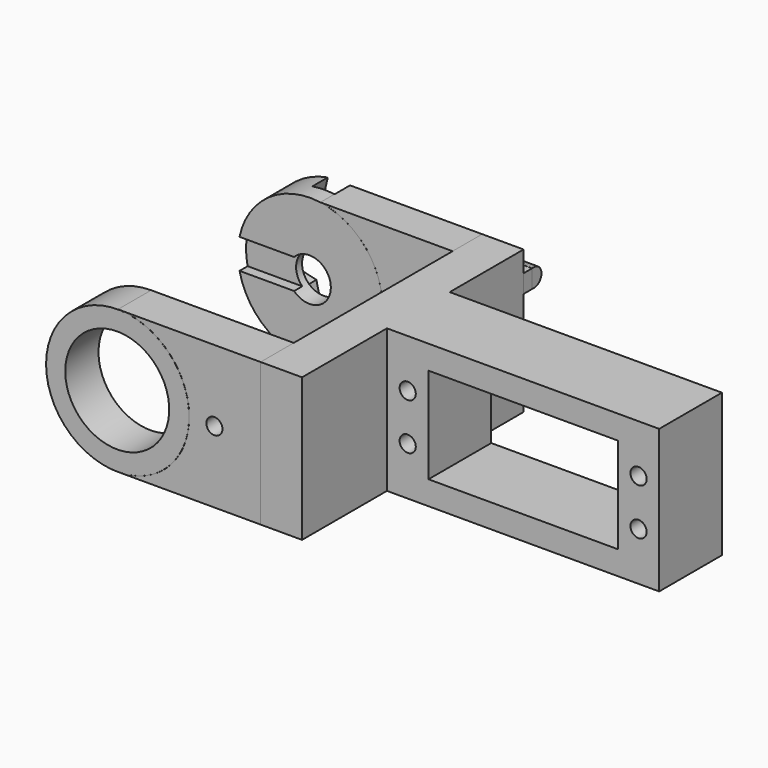
from build123d import *

# Parameters (mm, degrees)
SKETCH002_W     = 8.977869
SKETCH002_H     = 59.983136
PAD001_DEPTH    = 15.5
SKETCH003_W     = 3.492328
SKETCH003_H     = 22.021174
POCKET001_DEPTH = 3
FILLET_R        = 2
FILLET001_R     = 2
SKETCH004_W     = 2.246188
SKETCH004_H     = 3.944797
SKETCH004_W_2   = 2.255042
SKETCH004_H_2   = 3.950065
PAD002_DEPTH    = 2.3
SKETCH007_W     = 7.994439
SKETCH007_H     = 30.992103
PAD004_DEPTH    = 28.65
SKETCH008_R     = 15.649013
PAD005_DEPTH    = 8
SKETCH009_W     = 10.023189
SKETCH009_H     = 13.999053
POCKET002_DEPTH = 8.001
POCKET003_DEPTH = 4.18
SKETCH011_R     = 4.641628
POCKET004_DEPTH = 5
POCKET007_DEPTH = 2.2
SKETCH012_W     = 8.980885
SKETCH012_H     = 30.993558
PAD006_DEPTH    = 31
SKETCH013_R     = 15.496795
PAD007_DEPTH    = 9
SKETCH014_R     = 11.256607
POCKET005_DEPTH = 9.001
SKETCH015_R     = 1.740109
POCKET006_DEPTH = 9.001
SKETCH006_W     = 2.5
SKETCH006_H     = 3.94941
EXTRUDE_DEPTH   = 8
FILLET003_R     = 1.97
SKETCH005_W     = 2.501053
SKETCH005_H     = 3.940234
PAD003_DEPTH    = 8
FILLET002_R     = 1.97
SKETCH_W        = 58.960041
SKETCH_H        = 16.989173
PAD_DEPTH       = 15.5
SKETCH001_R     = 1.754684
SKETCH001_R_2   = 1.752789
SKETCH001_W     = 40.995754
SKETCH001_H     = 20.714458
POCKET_DEPTH    = 16.990173


with BuildPart() as obj1:
    # Sketch002 → Pad001 (new body, symmetric)
    with BuildSketch(Plane.XY):
        with Locations((31.5110655, -25.991567)):
            Rectangle(SKETCH002_W, SKETCH002_H)
    extrude(amount=PAD001_DEPTH, both=True)

    # Sketch003 (on Face1 of Pad001) → Pocket001 (cut)
    with BuildSketch(Plane(origin=(0, 4.000001, 0), x_dir=(-1, 0, 0), z_dir=(0, 1, 0))):
        with Locations((-32.0097, 0.009076)):
            Rectangle(SKETCH003_W, SKETCH003_H)
    extrude(amount=-POCKET001_DEPTH, mode=Mode.SUBTRACT)

    # Fillet
    fillet_edges = [obj1.edges().sort_by_distance(p)[0] for p in [
        (32.0097, 1.000001, -11.001511),
    ]]
    fillet(fillet_edges, radius=FILLET_R)

    # Fillet001
    fillet001_edges = [obj1.edges().sort_by_distance(p)[0] for p in [
        (32.0097, 1.000001, 11.019663),
    ]]
    fillet(fillet001_edges, radius=FILLET001_R)

    # Sketch004 (on Face7 of Fillet001) → Pad002 (join)
    with BuildSketch(Plane(origin=(0, 4.000001, 0), x_dir=(-1, 0, 0), z_dir=(0, 1, 0))):
        with Locations((-34.878453, -8.9877845)):
            Rectangle(SKETCH004_W, SKETCH004_H)
        with Locations((-29.13443, -9.0147575)):
            Rectangle(SKETCH004_W_2, SKETCH004_H_2)
        with Locations((-34.878453, 8.9877845)):
            Rectangle(SKETCH004_W, SKETCH004_H)
        with Locations((-29.13443, 9.0147575)):
            Rectangle(SKETCH004_W_2, SKETCH004_H_2)
    extrude(amount=PAD002_DEPTH)


with BuildPart() as parte_arriba_motor:
    # Sketch007 (on Face1 of CopyPad004) → Pad004 (new body)
    with BuildSketch(Plane(origin=(27.022131, 0, 0), x_dir=(0, -1, 0), z_dir=(-1, 0, 0))):
        with Locations((-0.0007855, 0.0019735)):
            Rectangle(SKETCH007_W, SKETCH007_H)
    extrude(amount=PAD004_DEPTH)

    # Sketch008 (on Face3 of Pad004) → Pad005 (join)
    with BuildSketch(Plane(origin=(0, 3.998005, 0), x_dir=(-1, 0, 0), z_dir=(0, 1, 0))):
        with Locations((3.815743, 0.001435)):
            Circle(SKETCH008_R)
    extrude(amount=-PAD005_DEPTH)

    # Sketch009 (on Face9 of Pad005) → Pocket002 (cut, through all)
    with BuildSketch(Plane(origin=(0, 3.998005, 0), x_dir=(-1, 0, 0), z_dir=(0, 1, 0))):
        with Locations((-22.0115905, -0.0004715)):
            Rectangle(SKETCH009_W, SKETCH009_H)
    extrude(amount=-POCKET002_DEPTH, mode=Mode.SUBTRACT)

    # Sketch010 (on Face12 of Pocket002) → Pocket003 (cut)
    with BuildSketch(Plane(origin=(0, 3.998005, 0), x_dir=(-1, 0, 0), z_dir=(0, 1, 0))):
        Polygon((-0.879047, 4.879039), (-12.499996, 2.15), (-13.056458, 2.076739), (-13.574997, 1.861954), (-14.020602, 1.519604), (-14.361478, 1.075023), (-14.576989, 0.55653), (-14.649981, 0), (-14.576447, -0.556616), (-14.361427, -1.07512), (-14.019322, -1.51973), (-13.575246, -1.861696), (-13.056714, -2.076535), (-12.500516, -2.149443), (-0.879091, -4.879015), (1.6565, -15.670952), (4.613011, -15.847545), (6.390335, -15.545628), (8.879035, -4.879036), (19.292059, -2.465662), (19.451073, -1.246381), (19.49725, -0.017855), (19.447609, 1.211716), (19.306059, 2.428864), (8.879012, 4.879032), (6.402977, 15.480504), (4.635699, 15.800562), (1.61602, 15.605743), align=None)
    extrude(amount=-POCKET003_DEPTH, mode=Mode.SUBTRACT)

    # Sketch011 (on Face14 of Pocket003) → Pocket004 (cut)
    with BuildSketch(Plane(origin=(0, -0.181995, 0), x_dir=(-1, 0, 0), z_dir=(0, 1, 0))):
        with Locations((3.991006, 0)):
            Circle(SKETCH011_R)
    extrude(amount=-POCKET004_DEPTH, mode=Mode.SUBTRACT)

    # Sketch016 (on Face20 of Pocket004) → Pocket007 (cut)
    with BuildSketch(Plane.XZ.offset(4.001995)):
        Polygon((-19.274756, 3.229076), (-19.698963, 0), (-19.323395, -3.255331), (-6.564783, -3.255331), (-7.508081, -1.875622), (-7.786129, -0.643242), (-7.892649, 0.261497), (-7.606458, 1.237008), (-7.387746, 2.244735), (-6.500566, 3.229076), align=None)
    extrude(amount=-POCKET007_DEPTH, mode=Mode.SUBTRACT)


with BuildPart() as parte_abajo_motor:
    # Sketch012 (on Face1 of CopyPad005) → Pad006 (new body)
    with BuildSketch(Plane(origin=(27.022131, 0, 0), x_dir=(0, -1, 0), z_dir=(-1, 0, 0))):
        with Locations((51.4901415, -0.003249)):
            Rectangle(SKETCH012_W, SKETCH012_H)
    extrude(amount=PAD006_DEPTH)

    # Sketch013 (on Face4 of Pad006) → Pad007 (join)
    with BuildSketch(Plane(origin=(0, -46.999699, 0), x_dir=(-1, 0, 0), z_dir=(0, 1, 0))):
        with Locations((3.931386, -0.003132)):
            Circle(SKETCH013_R)
    extrude(amount=-PAD007_DEPTH)

    # Sketch014 (on Face8 of Pad007) → Pocket005 (cut, through all)
    with BuildSketch(Plane(origin=(0, -46.999699, 0), x_dir=(-1, 0, 0), z_dir=(0, 1, 0))):
        with Locations((4.019337, -0.005181)):
            Circle(SKETCH014_R)
    extrude(amount=-POCKET005_DEPTH, mode=Mode.SUBTRACT)

    # Sketch015 (on Face2 of Pocket005) → Pocket006 (cut, through all)
    with BuildSketch(Plane(origin=(0, -46.999699, 0), x_dir=(-1, 0, 0), z_dir=(0, 1, 0))):
        with Locations((-17.01331, 0.008823)):
            Circle(SKETCH015_R)
    extrude(amount=-POCKET006_DEPTH, mode=Mode.SUBTRACT)


with BuildPart() as fillet003:
    # Sketch006 (on Face1 of CopyPad003) → Extrude (new body)
    with BuildSketch(Plane(origin=(28.006909, 0, 0), x_dir=(0, -1, 0), z_dir=(-1, 0, 0))):
        with Locations((-7.549415, 9.015147)):
            Rectangle(SKETCH006_W, SKETCH006_H)
    extrude(amount=EXTRUDE_DEPTH)


with BuildPart() as fillet003_1:
    # Extrude placement: moved
    add(fillet003.part.moved(Location((8.02, 0, 0))))

    # Fillet003
    fillet003_edges = [fillet003_1.edges().sort_by_distance(p)[0] for p in [
        (32.026909, 8.799415, 10.989852),
        (32.026909, 8.799415, 7.040442),
    ]]
    fillet(fillet003_edges, radius=FILLET003_R)


with BuildPart() as obj2:
    # Sketch005 (on Face1 of CopyPad002) → Pad003 (new body)
    with BuildSketch(Plane(origin=(28.006909, 0, 0), x_dir=(0, -1, 0), z_dir=(-1, 0, 0))):
        with Locations((-7.5503545, -9.00987)):
            Rectangle(SKETCH005_W, SKETCH005_H)
    extrude(amount=-PAD003_DEPTH)

    # Fillet002
    fillet002_edges = [obj2.edges().sort_by_distance(p)[0] for p in [
        (32.006909, 8.800881, -7.039753),
        (32.006909, 8.800881, -10.979987),
    ]]
    fillet(fillet002_edges, radius=FILLET002_R)

    # Fusion: union Fillet003
    add(fillet003_1.part)


with BuildPart() as obj3:
    # Sketch → Pad (new body, symmetric)
    with BuildSketch(Plane.XY):
        with Locations((65.4798945, -24.5020905)):
            Rectangle(SKETCH_W, SKETCH_H)
    extrude(amount=PAD_DEPTH, both=True)

    # Sketch001 (on Face1 of Pad) → Pocket (cut, through all)
    with BuildSketch(Plane(origin=(0, -16.007504, 0), x_dir=(-1, 0, 0), z_dir=(0, 1, 0))):
        with Locations((-90.493328, 5.048292)):
            Circle(SKETCH001_R)
        with Locations((-90.493328, -5.048292)):
            Circle(SKETCH001_R)
        with Locations((-40.494466, 5.040685)):
            Circle(SKETCH001_R_2)
        with Locations((-40.494466, -5.040685)):
            Circle(SKETCH001_R_2)
        with Locations((-65.495859, 0.000125)):
            Rectangle(SKETCH001_W, SKETCH001_H)
    extrude(amount=-POCKET_DEPTH, mode=Mode.SUBTRACT)

    # Fusion001: union obj1, parte_arriba_motor, parte_abajo_motor, obj2
    add(obj1.part)
    add(parte_arriba_motor.part)
    add(parte_abajo_motor.part)
    add(obj2.part)


solid = obj3.part
